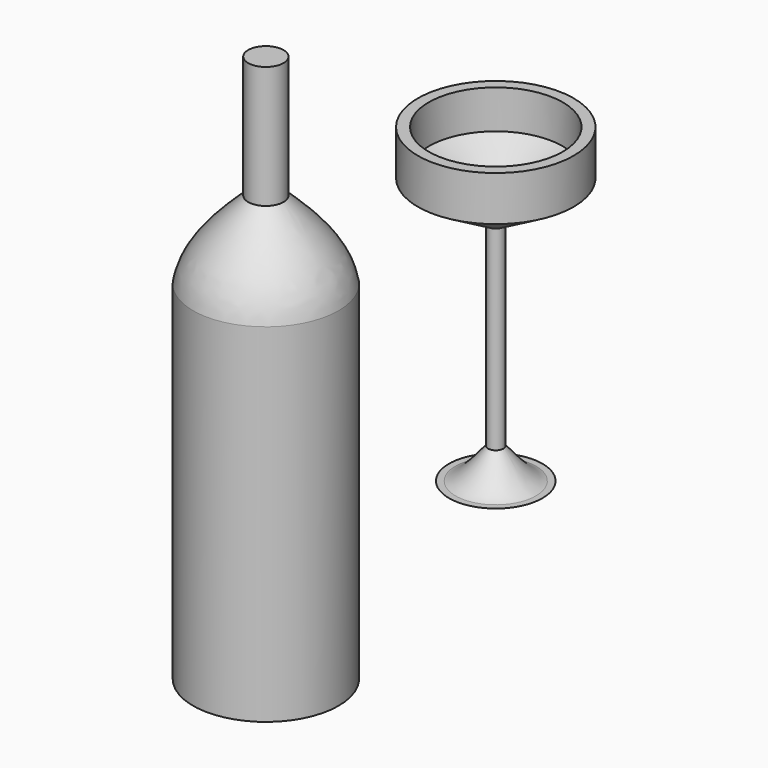
from build123d import *

# Parameters (mm, degrees)
F0_W = 6.9999985397
F0_H = 5


with BuildPart() as f1:
    # F0 (on Front) → F1 (revolve)
    with BuildSketch(Plane.XZ):
        with BuildLine():
            Line((30, 0), (25.8585092875, 0))
            add(Edge.make_bspline(
                [(25.8585092875, 0), (27.3116843389, -0.4316274096), (28.6974805174, -0.4630992086), (30, 0)],
                knots=[0.2014445689, 0.2014445689, 0.2014445689, 0.2014445689, 0.2489747507, 0.2489747507, 0.2489747507, 0.2489747507], degree=3))
        make_face()
    revolve(axis=Axis((0, 0, 75.1739375817), (0, 0, 1)))


with BuildPart() as f1b:
    # F0 (on Front) → F1, piece 2 (revolve)
    with BuildSketch(Plane.XZ):
        with BuildLine():
            Line((0, 142.264973081), (0, 0))
            Line((0, 0), (25.8585092875, 0))
            add(Edge.make_bspline(
                [(4.9611562863, 19.8637973517), (12.3303766325, 10.8465700925), (19.6995969787, 1.8293428333), (25.8585092875, 0)],
                knots=[0, 0, 0, 0, 0.2014445689, 0.2014445689, 0.2014445689, 0.2014445689], degree=3))
            Line((4.9611562863, 19.8637973517), (4.9611562863, 145.1292979984))
            Line((4.9611562863, 145.1292979984), (0, 142.264973081))
        make_face()
        Polygon((0, 150.3478751635), (0, 142.264973081), (4.9611562863, 145.1292979984), (50, 171.1324865405), (50, 195), (43.0000014603, 195), (43.0000014603, 175.1739375817), align=None)
        with Locations((46.5000007302, 197.5)):
            Rectangle(F0_W, F0_H)
    revolve(axis=Axis((0, 0, 75.1739375817), (0, 0, 1)))


with BuildPart() as f3:
    # F2 (on Front) → F3 (revolve)
    with BuildSketch(Plane.XZ):
        with BuildLine():
            Line((-147.5678905943, 191.8281465769), (-147.5678905943, -160.3494286537))
            Line((-147.5678905943, -160.3494286537), (-100.8578097971, -159.8519305577))
            Line((-100.8578097971, -159.8519305577), (-100.8578097971, 44.280486039))
            Line((-100.8578097971, 44.280486039), (-100.8578097971, 63.4109550445))
            add(Edge.make_bspline(
                [(-136.2166553736, 113.2949069142), (-120.2705357988, 98.2116867745), (-104.3244162241, 83.1284666349), (-100.8578097971, 63.4109550445)],
                knots=[0, 0, 0, 0, 0.4565026562, 0.4565026562, 0.4565026562, 0.4565026562], degree=3))
            Line((-136.2166553736, 113.2949069142), (-136.2166553736, 191.8281465769))
            Line((-136.2166553736, 191.8281465769), (-147.5678905943, 191.8281465769))
        make_face()
    revolve(axis=Axis((-147.5678905943, 0, 15.7393589616), (0, 0, 1)))


solid = Compound([f1.part, f1b.part, f3.part])
